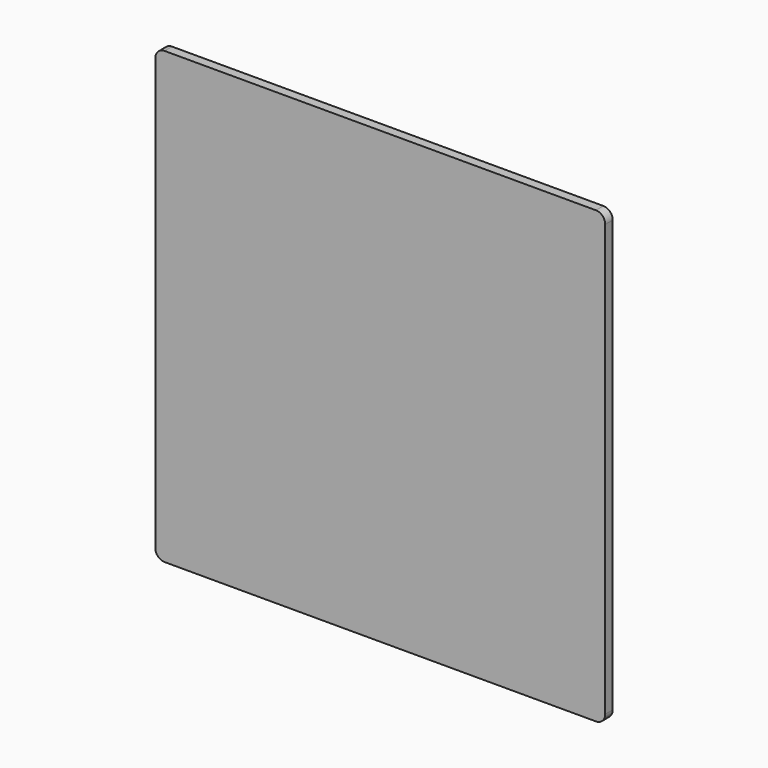
from build123d import *

# Parameters (mm, degrees)
F1_DEPTH = 6.35


with BuildPart() as f1:
    # F0 (on Front) → F1 (new body, symmetric)
    with BuildSketch(Plane.XZ):
        with BuildLine():
            Line((292.1, 304.8), (-292.1, 304.8))
            ThreePointArc((-292.1, 304.8), (-301.080256, 301.080256), (-304.8, 292.1))
            Line((-304.8, 292.1), (-304.8, -292.1))
            ThreePointArc((-304.8, -292.1), (-301.080256, -301.080256), (-292.1, -304.8))
            Line((-292.1, -304.8), (292.1, -304.8))
            ThreePointArc((292.1, -304.8), (301.080256, -301.080256), (304.8, -292.1))
            Line((304.8, -292.1), (304.8, 292.1))
            ThreePointArc((304.8, 292.1), (301.080256, 301.080256), (292.1, 304.8))
        make_face()
    extrude(amount=F1_DEPTH, both=True)


solid = f1.part
